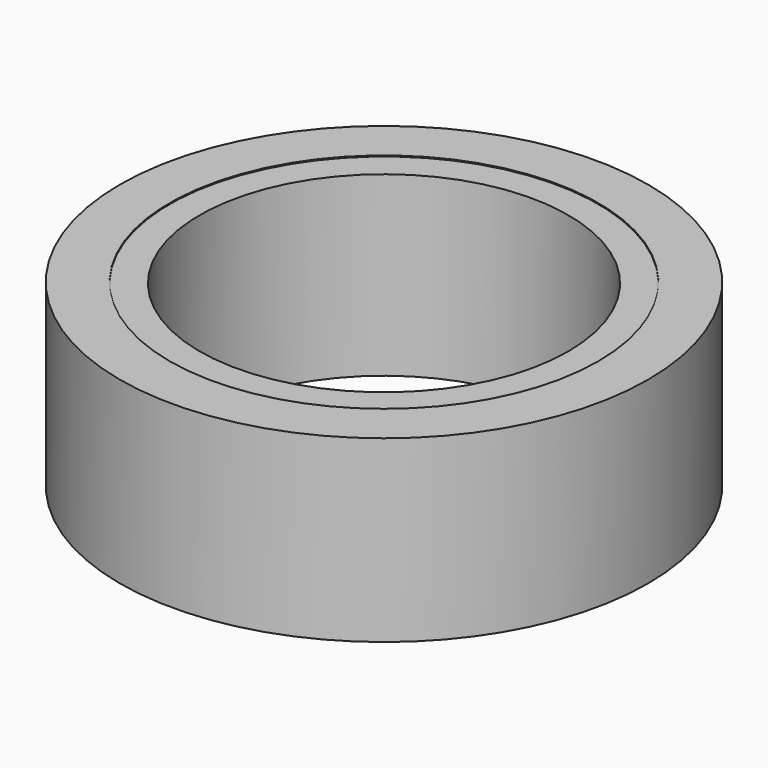
from build123d import *

# Parameters (mm, degrees)
F0_R     = 26.5
F0_R_2   = 21.5
F1_DEPTH = 9
F0_R_3   = 18.5
F2_DEPTH = 8.9


with BuildPart() as f1:
    # F0 (on Top) → F1 (new body, symmetric)
    with BuildSketch(Plane.XY):
        Circle(F0_R)
        Circle(F0_R_2, mode=Mode.SUBTRACT)
    extrude(amount=F1_DEPTH, both=True)

    # F0 (on Top) → F2 (join, symmetric)
    with BuildSketch(Plane.XY):
        Circle(F0_R_2)
        Circle(F0_R_3, mode=Mode.SUBTRACT)
    extrude(amount=F2_DEPTH, both=True)


solid = f1.part
